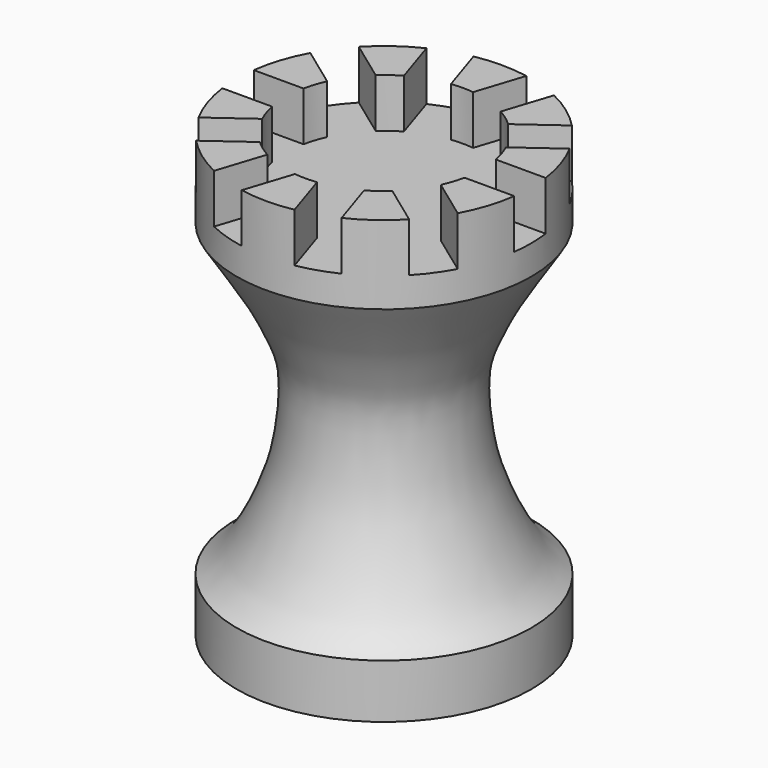
from build123d import *

# Parameters (mm, degrees)
F0_W     = 19.05
F0_H     = 10.16
F2_R     = 12.7
F3_DEPTH = 6.35
F4_W     = 7.2063849882
F4_H     = 5.08
F5_DEPTH = 6.35


with BuildPart() as f1:
    # F0 (on Front) → F1 (revolve)
    with BuildSketch(Plane.XZ):
        with BuildLine():
            Line((0, 46.99), (0, 0))
            Line((0, 0), (19.05, 0))
            Line((19.05, 0), (19.05, 6.985))
            add(Edge.make_bspline(
                [(19.05, 6.985), (16.2391823394, 8.5810058703), (12.6188776664, 16.288597078), (10.9922878006, 22.0505625493), (10.305692607, 30.1006807739), (11.6872230365, 34.2073674129), (13.795029925, 38.6193750914), (15.9890974554, 42.3022760514), (18.1140442061, 45.4568990599), (19.05, 46.99)],
                knots=[0, 0, 0, 0, 0.1903034554, 0.3390772007, 0.4978932907, 0.618503958, 0.7432602735, 0.8640913793, 1, 1, 1, 1], degree=3))
            Line((19.05, 46.99), (0, 46.99))
        make_face()
        with Locations((9.525, 52.07)):
            Rectangle(F0_W, F0_H)
    revolve(axis=Axis((0, 0, 28.575), (0, 0, 1)))

    # F2 (on face) → F3 (cut)
    with BuildSketch(Plane.XY.offset(57.15)):
        Circle(F2_R)
    extrude(amount=-F3_DEPTH, mode=Mode.SUBTRACT)

    # F4 (on face) → F5 (cut)
    with BuildSketch(Plane.XY.offset(57.15)):
        with Locations((16.0466003874, 0)):
            Rectangle(F4_W, F4_H)
        Polygon((14.4040418363, 13.6047616321), (8.5739539128, 9.3689548137), (11.5599029945, 5.2591484823), (17.3899909179, 9.4949553006), align=None)
        Polygon((3.6564363849, 19.4729667295), (1.4295409556, 12.6192873276), (6.2609080584, 11.0494809962), (8.4878034877, 17.9031603981), align=None)
        Polygon((-8.4878034877, 17.9031603981), (-6.2609080584, 11.0494809962), (-1.4295409556, 12.6192873276), (-3.6564363849, 19.4729667295), align=None)
        Polygon((-17.3899909179, 9.4949553006), (-11.5599029945, 5.2591484823), (-8.5739539128, 9.3689548137), (-14.4040418363, 13.6047616321), align=None)
        with Locations((-16.0466003874, 0)):
            Rectangle(F4_W, F4_H)
        Polygon((-14.4040418363, -13.6047616321), (-8.5739539128, -9.3689548137), (-11.5599029945, -5.2591484823), (-17.3899909179, -9.4949553006), align=None)
        Polygon((-3.6564363849, -19.4729667295), (-1.4295409556, -12.6192873276), (-6.2609080584, -11.0494809962), (-8.4878034877, -17.9031603981), align=None)
        Polygon((8.4878034877, -17.9031603981), (6.2609080584, -11.0494809962), (1.4295409556, -12.6192873276), (3.6564363849, -19.4729667295), align=None)
        Polygon((17.3899909179, -9.4949553006), (11.5599029945, -5.2591484823), (8.5739539128, -9.3689548137), (14.4040418363, -13.6047616321), align=None)
    extrude(amount=-F5_DEPTH, mode=Mode.SUBTRACT)


solid = f1.part
